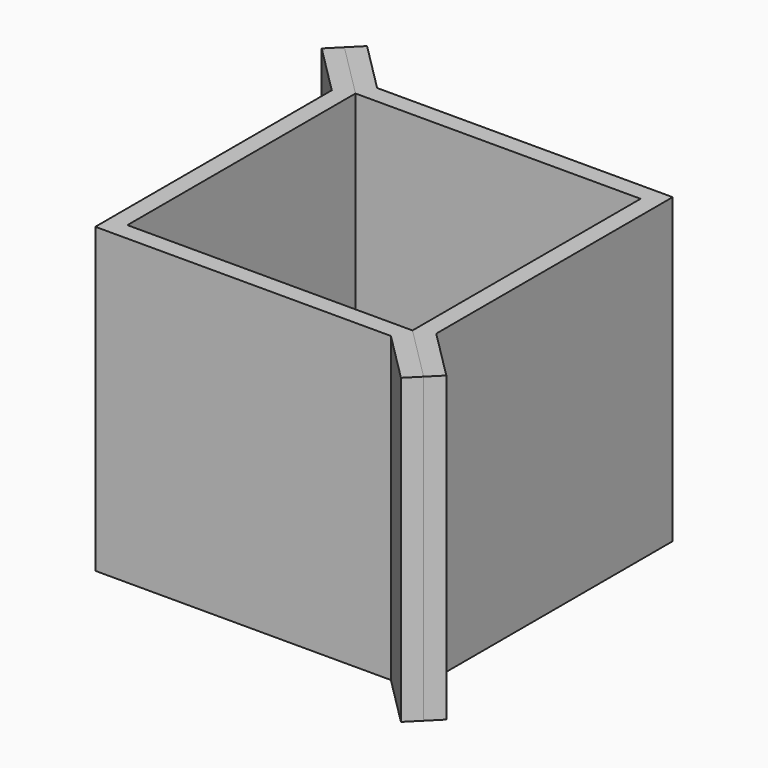
from build123d import *

# Parameters (mm, degrees)
F4_DEPTH = 6.35
F5_DEPTH = 107.95
F8_R     = 3.175
F9_DEPTH = 2.54


with BuildPart() as f4:
    # F3 (on offset) → F4 (new body)
    with BuildSketch(Plane.XY.offset(-6.35)):
        Polygon((0, 101.6), (0, 0), (101.6, 0), align=None)
        Polygon((101.6, 0), (0, 0), (0, 101.6), (-6.35, 107.95), (-19.8203841816, 121.4203841816), (-24.3105122421, 116.9302561211), (-6.35, 98.9697438789), (-6.35, -6.35), (98.9697438789, -6.35), (116.9302561211, -24.3105122421), (121.4203841816, -19.8203841816), (107.95, -6.35), align=None)
    extrude(amount=F4_DEPTH)


with BuildPart() as f5:
    # F3 (on offset) → F5 (new body)
    with BuildSketch(Plane.XY.offset(-6.35)):
        Polygon((101.6, 0), (0, 0), (0, 101.6), (-6.35, 107.95), (-19.8203841816, 121.4203841816), (-24.3105122421, 116.9302561211), (-6.35, 98.9697438789), (-6.35, -6.35), (98.9697438789, -6.35), (116.9302561211, -24.3105122421), (121.4203841816, -19.8203841816), (107.95, -6.35), align=None)
    extrude(amount=F5_DEPTH)

    # F6: union F4
    add(f4.part)

    # F8 (on plane+point) → F9 (join)
    with BuildSketch(Plane(origin=(50.8, 50.8, 0), x_dir=(-0.7071067812, 0.7071067812, 0), z_dir=(0.7071067812, 0.7071067812, 0))):
        with Locations((85.8571770291, 82.55)):
            Circle(F8_R)
        with Locations((85.8571770291, 12.7)):
            Circle(F8_R)
        with Locations((-85.8571770291, 82.55)):
            Circle(F8_R)
        with Locations((-85.8571770291, 12.7)):
            Circle(F8_R)
    extrude(amount=F9_DEPTH)


with BuildPart() as f10_1:
    # F10: instance of F5
    add(f5.part.mirror(Plane(origin=(50.8, 50.8, 40.9695181501), x_dir=(-0.7071067812, 0.7071067812, 0), z_dir=(0.7071067812, 0.7071067812, 0))))

    # F11: cut F5
    add(f5.part, mode=Mode.SUBTRACT)


solid = Compound([f5.part, f10_1.part])
